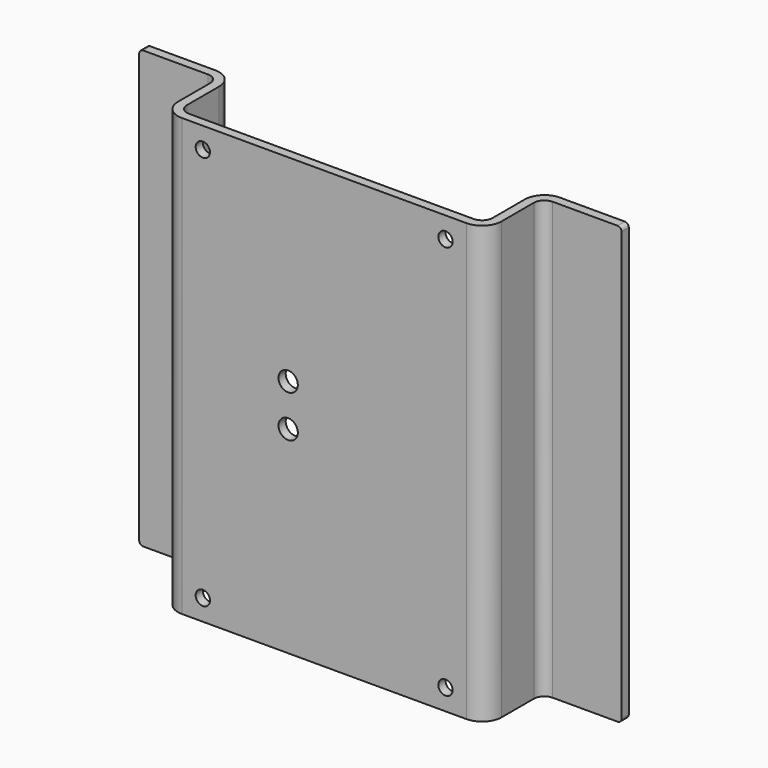
from build123d import *

# Parameters (mm, degrees)
F1_DEPTH = 82.55
F2_R     = 3.69316
F3_R     = 1.98374
F4_R     = 1.35255
F4_R_2   = 1.8288
F5_DEPTH = 1.70942
F6_R     = 0.762


with BuildPart() as f1:
    # F0 (on Top) → F1 (new body)
    with BuildSketch(Plane.XY):
        Polygon((0, -13.290575), (0, 0), (-16.70942, 0), (-16.70942, -1.70942), (-1.70942, -1.70942), (-1.70942, -14.999995), (59.49058, -14.999995), (59.49058, -1.70942), (74.49058, -1.70942), (74.49058, 0), (57.78116, 0), (57.78116, -13.290575), align=None)
    extrude(amount=F1_DEPTH)

    # F2
    f2_edges = [f1.edges().sort_by_distance(p)[0] for p in [
        (59.49058, -14.999995, 41.275),
        (-1.70942, -14.999995, 41.275),
        (0, 0, 41.275),
        (57.78116, 0, 41.275),
    ]]
    fillet(f2_edges, radius=F2_R)

    # F3
    f3_edges = [f1.edges().sort_by_distance(p)[0] for p in [
        (0, -13.290575, 41.275),
        (57.78116, -13.290575, 41.275),
        (59.49058, -1.70942, 41.275),
        (-1.70942, -1.70942, 41.275),
    ]]
    fillet(f3_edges, radius=F3_R)

    # F4 (on face) → F5 (cut, through all)
    with BuildSketch(Plane.XZ.offset(14.999995)):
        with Locations((51.82867, 78.58125)):
            Circle(F4_R)
        with Locations((5.95249, 78.58125)):
            Circle(F4_R)
        with Locations((5.95249, 3.96875)):
            Circle(F4_R)
        with Locations((51.82867, 3.96875)):
            Circle(F4_R)
        with Locations((22.08338, 37.30625)):
            Circle(F4_R_2)
        with Locations((22.08338, 45.24375)):
            Circle(F4_R_2)
    extrude(amount=-F5_DEPTH, mode=Mode.SUBTRACT)

    # F6
    f6_edges = [f1.edges().sort_by_distance(p)[0] for p in [
        (-16.70942, -0.85471, 82.55),
        (-16.70942, -0.85471, 0),
        (74.49058, -0.85471, 0),
        (74.49058, -0.85471, 82.55),
    ]]
    fillet(f6_edges, radius=F6_R)


solid = f1.part
